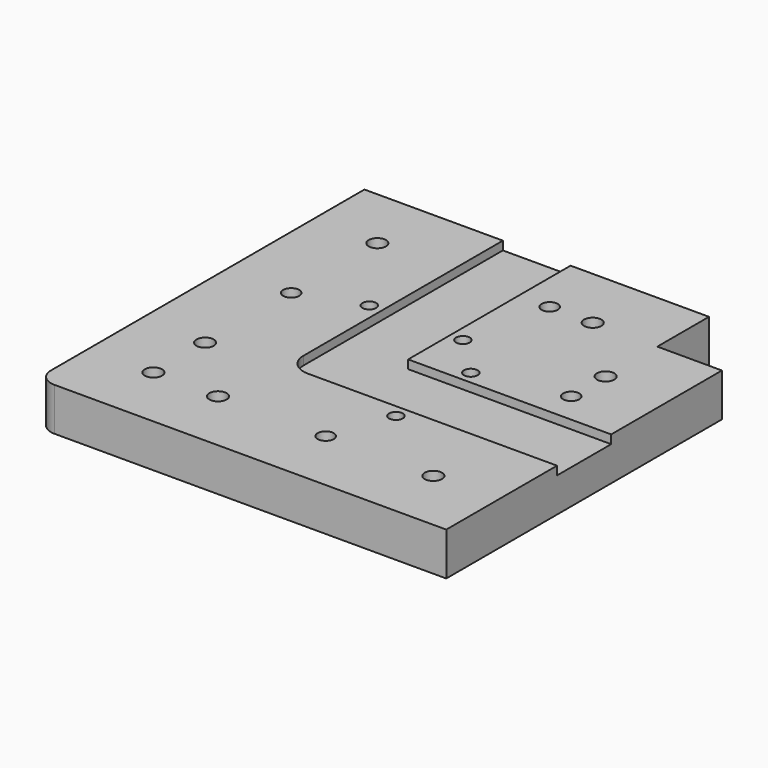
from build123d import *

# Parameters (mm, degrees)
F1_DEPTH  = 12.7
F3_DEPTH  = 2.54
F5_D      = 5.1054
F7_D      = 4.0386
F9_D      = 5.1054
F10_R     = 2.38125
F11_DEPTH = 12.701
F12_R     = 6.35
F13_R     = 5.08


with BuildPart() as f1:
    # F0 (on Top) → F1 (new body)
    with BuildSketch(Plane.XY):
        Polygon((41.275, 41.275), (41.275, 60.325), (-60.325, 60.325), (-60.325, -60.325), (60.325, -60.325), (60.325, 41.275), align=None)
    extrude(amount=F1_DEPTH)

    # F2 (on face) → F3 (cut)
    with BuildSketch(Plane.XY.offset(12.7)):
        Polygon((0.4572, 60.325), (-19.5072, 60.325), (-19.5072, -19.5072), (60.325, -19.5072), (60.325, 0.4572), (0.4572, 0.4572), align=None)
    extrude(amount=-F3_DEPTH, mode=Mode.SUBTRACT)

    # F5 (through all)
    with Locations(Plane(origin=(0, 0, 0), x_dir=(1, 0, 0), z_dir=(0, 0, -1))):
        with Locations((-41.275, -41.275), (22.225, -41.275), (41.275, -22.225), (41.275, 41.275), (-22.225, 41.275), (-41.275, 22.225)):
            Hole(F5_D / 2)

    # F7 (through all)
    with Locations(Plane.XY.offset(12.7)):
        with Locations((4.2672, 15.875), (-23.3172, 15.875), (15.875, 4.2672), (15.875, -23.3172)):
            Hole(F7_D / 2)

    # F9 (through all)
    with Locations(Plane(origin=(0, 0, 0), x_dir=(1, 0, 0), z_dir=(0, 0, -1))):
        with Locations((-41.275, 41.275)):
            Hole(F9_D / 2)

    # F10 (on face) → F11 (cut, through all)
    with BuildSketch(Plane(origin=(0, 0, 0), x_dir=(1, 0, 0), z_dir=(0, 0, -1))):
        with Locations((9.525, 41.275)):
            Circle(F10_R)
        with Locations((41.275, -9.525)):
            Circle(F10_R)
        with Locations((9.525, -41.275)):
            Circle(F10_R)
        with Locations((-41.275, -9.525)):
            Circle(F10_R)
    extrude(amount=-F11_DEPTH, mode=Mode.SUBTRACT)

    # F12
    f12_edges = [f1.edges().sort_by_distance(p)[0] for p in [
        (-19.5072, -19.5072, 11.43),
    ]]
    fillet(f12_edges, radius=F12_R)

    # F13
    f13_edges = [f1.edges().sort_by_distance(p)[0] for p in [
        (-60.325, -60.325, 6.35),
    ]]
    fillet(f13_edges, radius=F13_R)


solid = f1.part
